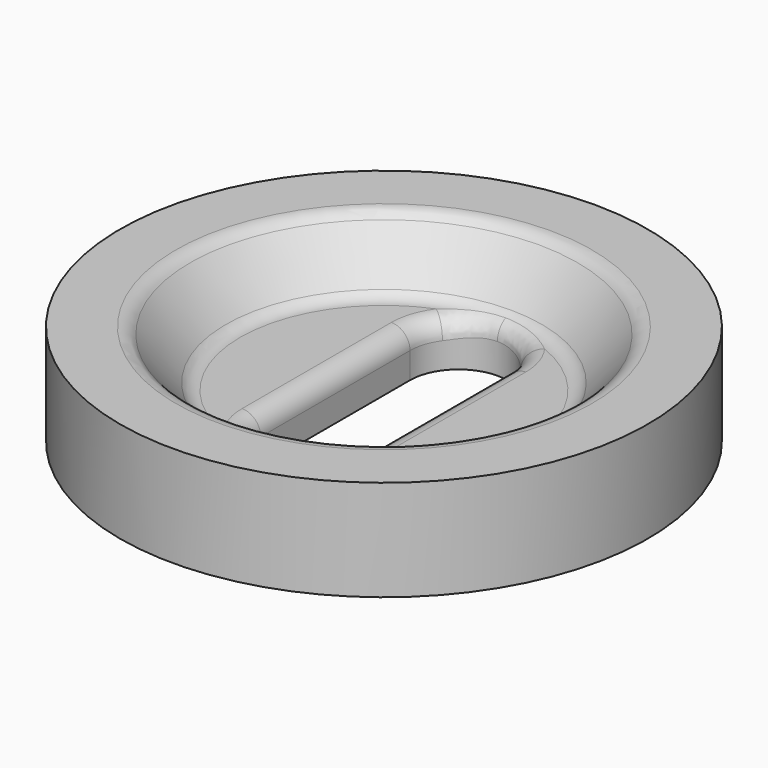
from build123d import *

# Parameters (mm, degrees)
POCKET_DEPTH = 5
FILLET_R     = 1
FILLET001_R  = 1
FILLET002_R  = 1


with BuildPart() as part:
    # Sketch → Revolution (revolve)
    with BuildSketch(Plane.YZ):
        Polygon((0, 0), (14.142, 0), (14.142, 5.4), (10.683, 5.4), (8.165701, 2.4), (0, 2.4), align=None)
    revolve(axis=Axis((0, 0, 0), (0, 0, 1)))

    # Sketch001 (on Face5 of Revolution) → Pocket (cut)
    with BuildSketch(Plane(origin=(0, 0, 2.4), x_dir=(0, -1, 0), z_dir=(0, 0, 1))):
        with BuildLine():
            Line((-5, 2.6), (5, 2.6))
            ThreePointArc((5, -2.6), (7.6, 0), (5, 2.6))
            Line((-5, -2.6), (5, -2.6))
            ThreePointArc((-5, 2.6), (-7.6, 0), (-5, -2.6))
        make_face()
    extrude(amount=-POCKET_DEPTH, mode=Mode.SUBTRACT)

    # Fillet
    fillet_edges = [part.edges().sort_by_distance(p)[0] for p in [
        (0, -8.165701, 2.4),
    ]]
    fillet(fillet_edges, radius=FILLET_R)

    # Fillet001
    fillet001_edges = [part.edges().sort_by_distance(p)[0] for p in [
        (0, 7.6, 2.4),
    ]]
    fillet(fillet001_edges, radius=FILLET001_R)

    # Fillet002
    fillet002_edges = [part.edges().sort_by_distance(p)[0] for p in [
        (0, -10.683, 5.4),
    ]]
    fillet(fillet002_edges, radius=FILLET002_R)


solid = part.part
